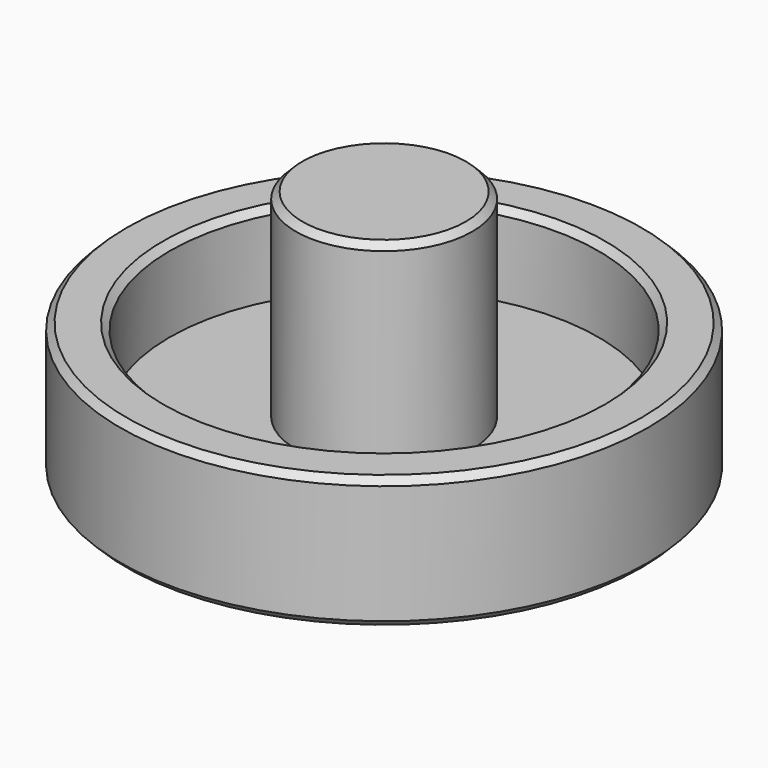
from build123d import *

# Parameters (mm, degrees)
CYLINDER041_R               = 5.35
CYLINDER041_DEPTH           = 12
CYLINDER043_R               = 13
CYLINDER043_DEPTH           = 5
CYLINDER042_R               = 16
CYLINDER042_DEPTH           = 8
CHAMFER003068012002092_SIZE = 0.4


with BuildPart() as cylinder041:
    # Cylinder041 → Cylinder041 (new body)
    with BuildSketch(Plane.XY.offset(-7)):
        Circle(CYLINDER041_R)
    extrude(amount=CYLINDER041_DEPTH)


with BuildPart() as cylinder043:
    # Cylinder043 → Cylinder043 (new body)
    with BuildSketch(Plane.XY.offset(-7)):
        Circle(CYLINDER043_R)
    extrude(amount=CYLINDER043_DEPTH)


with BuildPart() as bearing_remover_top:
    # Cylinder042 → Cylinder042 (new body)
    with BuildSketch(Plane.XY.offset(-10)):
        Circle(CYLINDER042_R)
    extrude(amount=CYLINDER042_DEPTH)

    # Cut001043: cut Cylinder043
    add(cylinder043.part, mode=Mode.SUBTRACT)

    # Fusion001002012037: union Cylinder041
    add(cylinder041.part)

    # Chamfer003068012002092
    chamfer003068012002092_edges = [bearing_remover_top.edges().sort_by_distance(p)[0] for p in [
        (-16, 0, -2),
        (-16, 0, -10),
        (-13, 0, -2),
        (-5.35, 0, 5),
    ]]
    chamfer(chamfer003068012002092_edges, length=CHAMFER003068012002092_SIZE)


solid = bearing_remover_top.part
